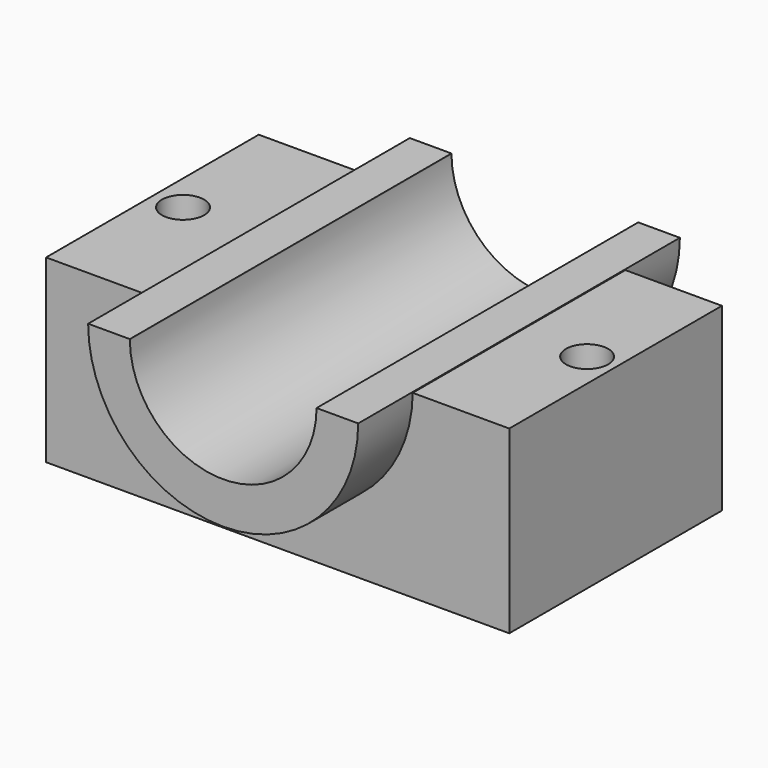
from build123d import *

# Parameters (mm, degrees)
F0_W     = 130.505652
F0_H     = 74.890166
F0_R     = 5.943332
F0_R_2   = 5.936545
F1_DEPTH = 50.8
F3_DEPTH = 56.642
F4_DEPTH = 111.252


with BuildPart() as f1:
    # F0 (on Top) → F1 (new body)
    with BuildSketch(Plane.XY):
        Rectangle(F0_W, F0_H)
        with Locations((-56.619376, 0)):
            Circle(F0_R, mode=Mode.SUBTRACT)
        with Locations((57.221707, 0)):
            Circle(F0_R_2, mode=Mode.SUBTRACT)
    extrude(amount=F1_DEPTH)

    # F2 (on Front) → F3 (join, symmetric)
    with BuildSketch(Plane.XZ):
        with BuildLine():
            Line((-26.310177, 51.006424), (-38.046643, 51.006424))
            ThreePointArc((-38.046643, 51.006424), (0.00796, 13.051229), (38.046678, 51.022345))
            Line((38.046678, 51.022345), (26.310227, 51.022345))
            ThreePointArc((26.310227, 51.022345), (0.00796, 24.787647), (-26.310177, 51.006424))
        make_face()
    extrude(amount=F3_DEPTH, both=True)

    # F3_face (on face) → F4 (cut, symmetric)
    with BuildSketch(Plane(origin=(0, 37.445083, 39.770332), x_dir=(-1, 0, 0), z_dir=(0, 1, 0))):
        with BuildLine():
            ThreePointArc((-26.308649, 11.029668), (0, -14.982687), (26.308649, 11.029668))
            Line((26.308649, 11.029668), (-26.308649, 11.029668))
        make_face()
    extrude(amount=F4_DEPTH, both=True, mode=Mode.SUBTRACT)


solid = f1.part
